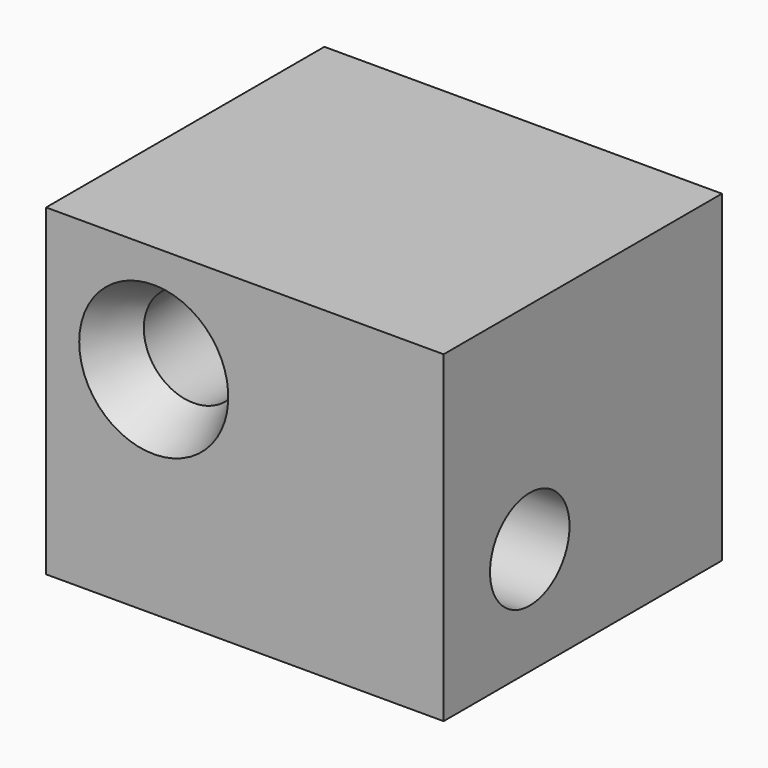
from build123d import *

# Parameters (mm, degrees)
SKETCH_W        = 16
SKETCH_H        = 14
PAD_DEPTH       = 13
SKETCH001_R     = 2
POCKET_DEPTH    = 16.001
SKETCH002_R     = 2
POCKET001_DEPTH = 14.001
CHAMFER_1_SIZE2 = 2
CHAMFER_1_SIZE  = 1
CHAMFER_2_SIZE2 = 2
CHAMFER_2_SIZE  = 1


with BuildPart() as part:
    # Sketch → Pad (new body)
    with BuildSketch(Plane.XY):
        with Locations((8, 7)):
            Rectangle(SKETCH_W, SKETCH_H)
    extrude(amount=PAD_DEPTH)

    # Sketch001 (on Face2 of Pad) → Pocket (cut, through all)
    with BuildSketch(Plane.YZ.offset(16)):
        with Locations((4.333333, 4.333333)):
            Circle(SKETCH001_R)
    extrude(amount=-POCKET_DEPTH, mode=Mode.SUBTRACT)

    # Sketch002 (on Face6 of Pocket) → Pocket001 (cut, through all)
    with BuildSketch(Plane(origin=(0, 14, 0), x_dir=(-1, 0, 0), z_dir=(0, 1, 0))):
        with Locations((-4.333333, 8.666667)):
            Circle(SKETCH002_R)
    extrude(amount=-POCKET001_DEPTH, mode=Mode.SUBTRACT)

    # Chamfer 1
    chamfer_1_edges = [part.edges().sort_by_distance(p)[0] for p in [
        (6.333333, 0, 8.666667),
    ]]
    chamfer_1_side = part.faces().sort_by_distance((8.235766, 0, 6.360683))[0]
    chamfer(chamfer_1_edges, length=CHAMFER_1_SIZE, length2=CHAMFER_1_SIZE2, reference=chamfer_1_side)

    # Chamfer 2
    chamfer_2_edges = [part.edges().sort_by_distance(p)[0] for p in [
        (0, 2.333333, 4.333333),
    ]]
    chamfer_2_side = part.faces().sort_by_distance((0, 7.197778, 6.660695))[0]
    chamfer(chamfer_2_edges, length=CHAMFER_2_SIZE, length2=CHAMFER_2_SIZE2, reference=chamfer_2_side)


solid = part.part
